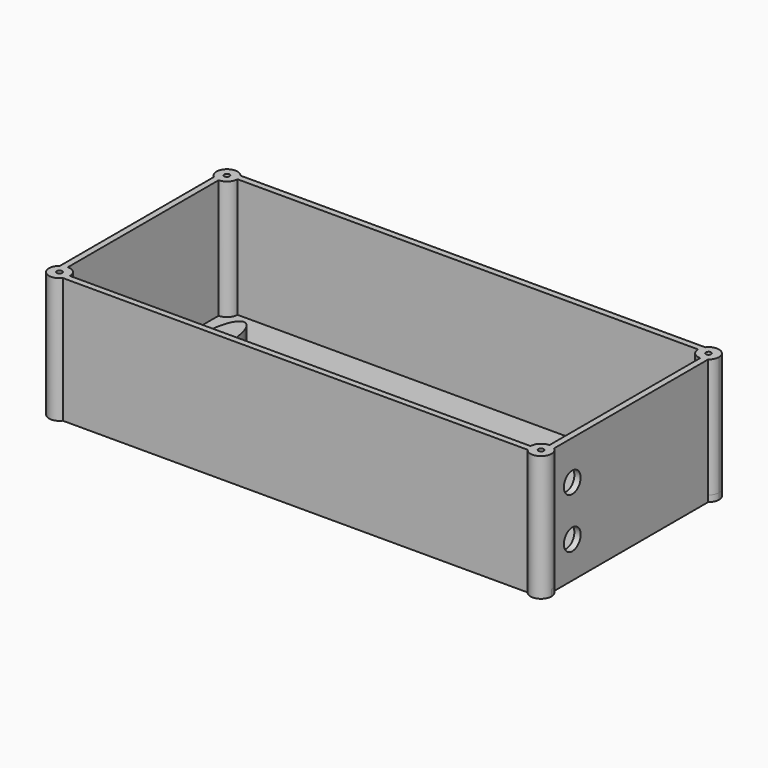
from build123d import *

# Parameters (mm, degrees)
F0_W      = 236
F0_H      = 106
F1_DEPTH  = 60
F2_T      = -3
F3_R      = 1.25
F4_DEPTH  = 10
F5_R      = 5
F7_DEPTH  = 57
F8_R      = 1.25
F9_DEPTH  = 15
F10_R     = 5.0237142935
F10_R_2   = 5
F11_DEPTH = 5
F12_R     = 5
F13_DEPTH = 5
F14_W     = 6
F14_H     = 2.4
F15_DEPTH = 11
F16_W     = 6
F16_H     = 2.4
F17_DEPTH = 11
F18_DEPTH = 3


with BuildPart() as f1:
    # F0 (on Top) → F1 (new body)
    with BuildSketch(Plane.XY):
        with Locations((118, 53)):
            Rectangle(F0_W, F0_H)
    extrude(amount=F1_DEPTH)

    # F2
    f2_openings = [f1.faces().sort_by_distance(p)[0] for p in [
        (118, 53, 60),
    ]]
    offset(amount=F2_T, openings=f2_openings)

    # F3 (on face) → F4 (join)
    with BuildSketch(Plane.XY.offset(3)):
        with BuildLine():
            add(Edge.make_bspline(
                [(25.5, 51), (35.8923048454, 51), (30.6961524227, 76.5), (25.5, 102), (20.3038475773, 76.5), (15.1076951546, 51), (25.5, 51)],
                knots=[0, 0, 0, 2.0943951024, 2.0943951024, 4.1887902048, 4.1887902048, 6.2831853072, 6.2831853072, 6.2831853072], degree=2, weights=[1, 0.5, 1, 0.5, 1, 0.5, 1]))
        make_face()
        with Locations((25.5, 68)):
            Circle(F3_R, mode=Mode.SUBTRACT)
        with BuildLine():
            add(Edge.make_bspline(
                [(210.5, 51), (220.8923048454, 51), (215.6961524227, 76.5), (210.5, 102), (205.3038475773, 76.5), (200.1076951546, 51), (210.5, 51)],
                knots=[0, 0, 0, 2.0943951024, 2.0943951024, 4.1887902048, 4.1887902048, 6.2831853072, 6.2831853072, 6.2831853072], degree=2, weights=[1, 0.5, 1, 0.5, 1, 0.5, 1]))
        make_face()
        with Locations((210.5, 68)):
            Circle(F3_R, mode=Mode.SUBTRACT)
    extrude(amount=F4_DEPTH)

    # F5
    f5_edges = [f1.edges().sort_by_distance(p)[0] for p in [
        (0, 0, 30),
        (0, 106, 30),
        (236, 0, 30),
        (236, 106, 30),
    ]]
    fillet(f5_edges, radius=F5_R)

    # F3 (on face) → F7 (join)
    with BuildSketch(Plane.XY.offset(3)):
        with BuildLine():
            ThreePointArc((3, 98), (6.5355339059, 99.4644660941), (8, 103))
            Line((8, 103), (3, 103))
            Line((3, 103), (3, 98))
        make_face()
        with BuildLine():
            ThreePointArc((8, 3), (6.5355339059, 6.5355339059), (3, 8))
            Line((3, 8), (3, 3))
            Line((3, 3), (8, 3))
        make_face()
        with BuildLine():
            Line((233, 103), (228, 103))
            ThreePointArc((228, 103), (229.4644660941, 99.4644660941), (233, 98))
            Line((233, 98), (233, 103))
        make_face()
        with BuildLine():
            Line((233, 3), (233, 8))
            ThreePointArc((233, 8), (229.4644660941, 6.5355339059), (228, 3))
            Line((228, 3), (233, 3))
        make_face()
        with BuildLine():
            ThreePointArc((238, 3), (236.5355339059, 6.5355339059), (233, 8))
            Line((233, 8), (233, 3))
            Line((233, 3), (228, 3))
            ThreePointArc((228, 3), (233, -2), (238, 3))
        make_face()
        with BuildLine():
            Line((3, 3), (3, 8))
            ThreePointArc((3, 8), (-0.5355339059, -0.5355339059), (8, 3))
            Line((8, 3), (3, 3))
        make_face()
        with BuildLine():
            Line((3, 103), (8, 103))
            ThreePointArc((8, 103), (-0.5355339059, 106.5355339059), (3, 98))
            Line((3, 98), (3, 103))
        make_face()
        with BuildLine():
            ThreePointArc((238, 103), (233, 108), (228, 103))
            Line((228, 103), (233, 103))
            Line((233, 103), (233, 98))
            ThreePointArc((233, 98), (236.5355339059, 99.4644660941), (238, 103))
        make_face()
    extrude(amount=F7_DEPTH)

    # F8 (on face) → F9 (cut)
    with BuildSketch(Plane.XY.offset(60)):
        with Locations((233, 3)):
            Circle(F8_R)
        with Locations((233, 103)):
            Circle(F8_R)
        with Locations((3, 3)):
            Circle(F8_R)
        with Locations((3, 103)):
            Circle(F8_R)
    extrude(amount=-F9_DEPTH, mode=Mode.SUBTRACT)

    # F10 (on face) → F11 (cut)
    with BuildSketch(Plane.YZ.offset(236)):
        with Locations((17.8831405938, 17.327476253)):
            Circle(F10_R)
        with Locations((17.8831405938, 41.2872235535)):
            Circle(F10_R_2)
    extrude(amount=-F11_DEPTH, mode=Mode.SUBTRACT)

    # F12 (on face) → F13 (cut)
    with BuildSketch(Plane(origin=(0, 0, 0), x_dir=(0, -1, 0), z_dir=(-1, 0, 0))):
        with Locations((-20.6461492926, 16.2427779287)):
            Circle(F12_R)
    extrude(amount=-F13_DEPTH, mode=Mode.SUBTRACT)

    # F14 (on face) → F15 (join)
    with BuildSketch(Plane.XY):
        with Locations((22.9410991961, 19.9766826301)):
            Rectangle(F14_W, F14_H)
        with Locations((32.9410991961, 19.9766826301)):
            Rectangle(F14_W, F14_H)
    extrude(amount=F15_DEPTH)

    # F16 (on face) → F17 (join)
    with BuildSketch(Plane.XY):
        with Locations((194.6382454364, 28.8)):
            Rectangle(F16_W, F16_H)
        with Locations((204.6382454364, 28.8)):
            Rectangle(F16_W, F16_H)
        with Locations((194.6382454364, 12.2)):
            Rectangle(F16_W, F16_H)
        with Locations((204.8560320139, 12.2)):
            Rectangle(F16_W, F16_H)
    extrude(amount=F17_DEPTH)

    # F18 (add): faces of the model
    f18_faces = [f1.faces().sort_by_distance(p)[0] for p in [
        (1.1261179487, 1.1261179487, 3),
        (1.1261179487, 104.8738820513, 3),
        (234.8738820513, 104.8738820513, 3),
        (234.8738820513, 1.1261179487, 3),
    ]]
    extrude(f18_faces, amount=F18_DEPTH)


solid = f1.part
